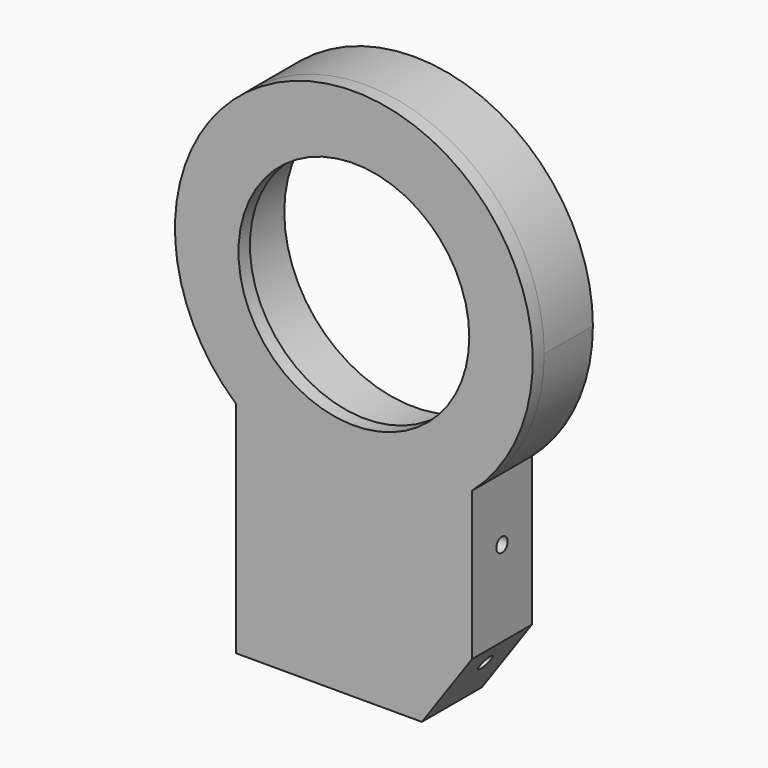
from build123d import *

# Parameters (mm, degrees)
F0_R      = 36.25
F1_DEPTH  = 17
F2_R      = 32.25
F3_DEPTH  = 4
F4_R      = 1.5
F5_DEPTH  = 15
F8_DEPTH  = 25
F11_DEPTH = 25


with BuildPart() as f1:
    # F0 (on Front) → F1 (new body)
    with BuildSketch(Plane.XZ):
        with BuildLine():
            ThreePointArc((33, -37.56328), (45.552168, -20.615528), (50, 0))
            ThreePointArc((50, 0), (0, 50), (-50, 0))
            ThreePointArc((-50, 0), (-45.552168, -20.615528), (-33, -37.56328))
            Line((-33, -37.56328), (-33, -79))
            Line((-33, -79), (-33, -99))
            Line((-33, -99), (-18.995849, -99))
            Line((-18.995849, -99), (0, -99))
            Line((0, -99), (18.995849, -99))
            Line((18.995849, -99), (33, -79))
            Line((33, -79), (33, -37.56328))
        make_face()
        Circle(F0_R, mode=Mode.SUBTRACT)
    extrude(amount=F1_DEPTH)

    # F2 (on face) → F3 (join)
    with BuildSketch(Plane.XZ.offset(17)):
        with BuildLine():
            Line((33, -79), (33, -37.56328))
            ThreePointArc((33, -37.56328), (0, 50), (-33, -37.56328))
            Line((-33, -37.56328), (-33, -99))
            Line((-33, -99), (18.995849, -99))
            Line((18.995849, -99), (33, -79))
        make_face()
        Circle(F2_R, mode=Mode.SUBTRACT)
    extrude(amount=F3_DEPTH)

    # F4 (on face) → F5 (cut)
    with BuildSketch(Plane(origin=(0, 0, 0), x_dir=(-1, 0, 0), z_dir=(0, 1, 0))):
        with Locations((-18, -42.60355)):
            Circle(F4_R)
        with Locations((18, -42.60355)):
            Circle(F4_R)
        with Locations((18, -67.60355)):
            Circle(F4_R)
        with Locations((-18, -67.60355)):
            Circle(F4_R)
    extrude(amount=-F5_DEPTH, mode=Mode.SUBTRACT)

    # F7 (on offset) → F8 (cut)
    with BuildSketch(Plane.YZ.offset(21)):
        with BuildLine():
            ThreePointArc((-12.5, -85.60355), (-10.5, -87.60355), (-8.5, -85.60355))
            Line((-8.5, -85.60355), (-12.5, -85.60355))
        make_face()
        with BuildLine():
            Line((-12.5, -85.60355), (-8.5, -85.60355))
            ThreePointArc((-8.5, -85.60355), (-10.5, -83.60355), (-12.5, -85.60355))
        make_face()
        with BuildLine():
            ThreePointArc((-12.5, -55.10355), (-10.5, -57.10355), (-8.5, -55.10355))
            Line((-8.5, -55.10355), (-12.5, -55.10355))
        make_face()
        with BuildLine():
            Line((-12.5, -55.10355), (-8.5, -55.10355))
            ThreePointArc((-8.5, -55.10355), (-10.5, -53.10355), (-12.5, -55.10355))
        make_face()
    extrude(amount=F8_DEPTH, mode=Mode.SUBTRACT)

    # F10 (on offset) → F11 (cut)
    with BuildSketch(Plane.YZ.offset(-21)):
        with BuildLine():
            ThreePointArc((-12.5, -85.60355), (-10.5, -87.60355), (-8.5, -85.60355))
            Line((-8.5, -85.60355), (-12.5, -85.60355))
        make_face()
        with BuildLine():
            Line((-12.5, -85.60355), (-8.5, -85.60355))
            ThreePointArc((-8.5, -85.60355), (-10.5, -83.60355), (-12.5, -85.60355))
        make_face()
        with BuildLine():
            ThreePointArc((-12.5, -55.10355), (-10.5, -57.10355), (-8.5, -55.10355))
            Line((-8.5, -55.10355), (-12.5, -55.10355))
        make_face()
        with BuildLine():
            Line((-12.5, -55.10355), (-8.5, -55.10355))
            ThreePointArc((-8.5, -55.10355), (-10.5, -53.10355), (-12.5, -55.10355))
        make_face()
    extrude(amount=-F11_DEPTH, mode=Mode.SUBTRACT)


solid = f1.part
